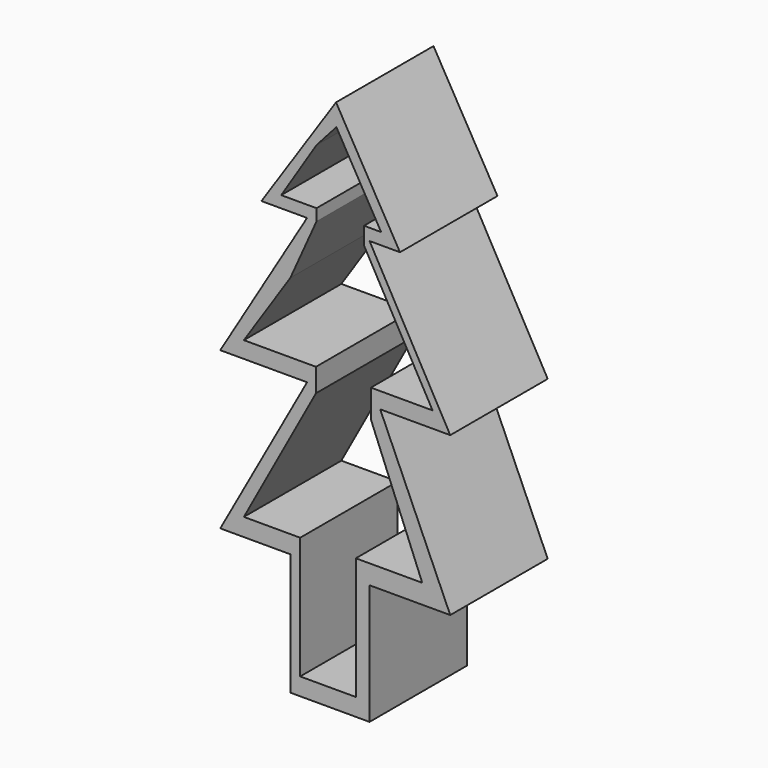
from build123d import *

# Parameters (mm, degrees)
F1_DEPTH = 25.4


with BuildPart() as f1:
    # F0 (on Front) → F1 (new body)
    with BuildSketch(Plane.XZ):
        Polygon((-28.2575, -26.828751), (-13.652501, -26.828751), (-13.652501, -52.228753), (2.857499, -52.228753), (2.857499, -27.14625), (19.684996, -27.14625), (5.08, 5.87375), (19.684996, 5.87375), (2.857499, 36.036253), (9.207499, 36.036253), (-4.127499, 59.21375), (-19.685, 36.036253), (-10.16, 36.036253), (-28.2575, 5.87375), (-10.16, 5.87375), align=None)
        Polygon((-23.341425, 9.316429), (-13.652501, 23.902772), (-8.195201, 36.036253), (-8.195201, 38.463868), (-15.555656, 38.463868), (-8.195201, 50.051615), (-4.058297, 54.693776), (5.279458, 38.463868), (1.701662, 38.463868), (1.701662, 34.84314), (15.997937, 9.217735), (3.135762, 9.217735), (3.135762, 3.399133), (13.842684, -23.123091), (0, -23.123091), (0, -48.583038), (-11.602138, -48.583038), (-11.602138, -23.123091), (-23.341425, -23.123091), (-8.313072, 4.454316), (-8.313072, 9.316429), align=None, mode=Mode.SUBTRACT)
    extrude(amount=F1_DEPTH)


solid = f1.part
